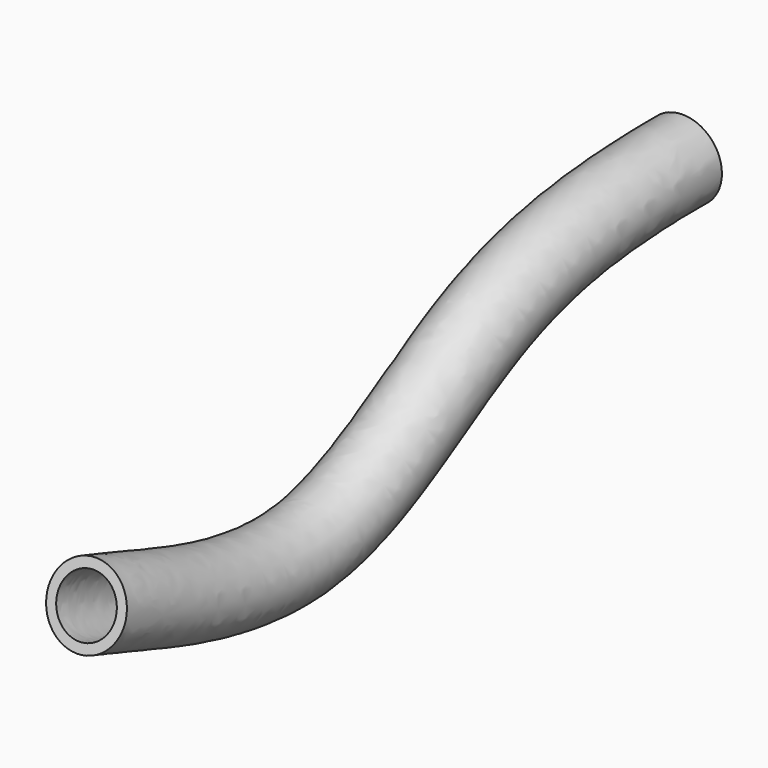
from build123d import *

# Parameters (mm, degrees)
F0_R   = 4
F0_R_2 = 3


with BuildPart() as f2:
    # F2: sweep along a path in F1
    with BuildLine(Plane.YZ) as f2_path:
        add(Plane.YZ * Edge.make_bspline(
            [(0, 0), (-9.0101351961, 0), (-25.3852009458, -1.3651000007), (-45.6433281149, -19.3374642866), (-68.3490940175, -11.709171411), (-73.8447290223, -9.8365739562), (-75.8870616555, -9.1854901984)],
            knots=[0, 0, 0, 0, 0.2874525568, 0.5745453467, 0.8411671393, 1, 1, 1, 1], degree=3))
    # F0 (on Front) → F2 (sweep)
    with BuildSketch(Plane.XZ):
        Circle(F0_R)
        Circle(F0_R_2, mode=Mode.SUBTRACT)
    sweep(path=f2_path.line)


solid = f2.part
